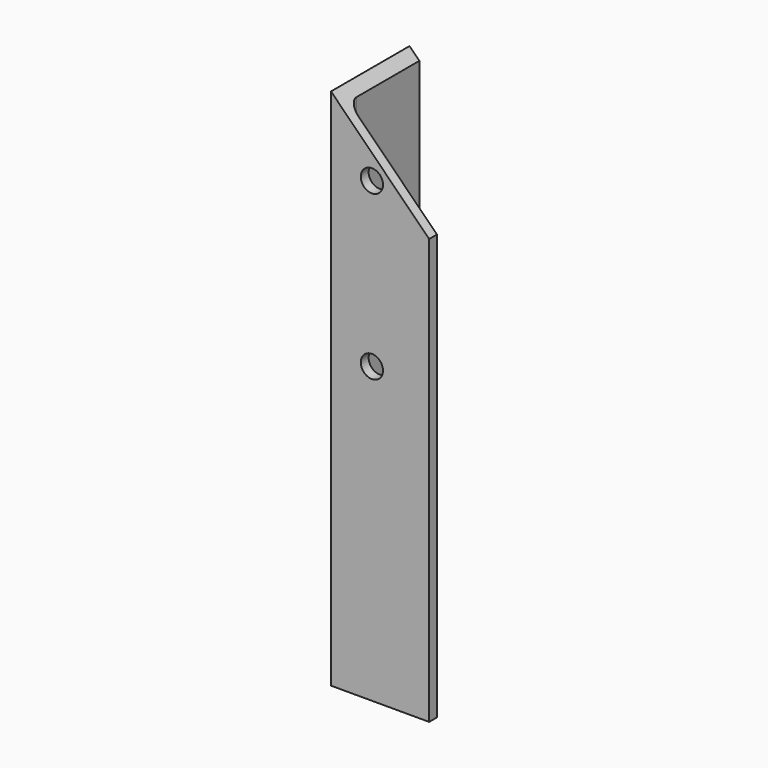
from build123d import *

# Parameters (mm, degrees)
F1_DEPTH = 160
F2_R     = 3
F4_DEPTH = 30.001
F6_D     = 6.8


with BuildPart() as f1:
    # F0 (on Top) → F1 (new body)
    with BuildSketch(Plane.XY):
        Polygon((3, 30), (0, 30), (0, 0), (30, 0), (30, 3), (3, 3), align=None)
    extrude(amount=F1_DEPTH)

    # F2
    f2_edges = [f1.edges().sort_by_distance(p)[0] for p in [
        (3, 3, 80),
    ]]
    fillet(f2_edges, radius=F2_R)

    # F3 (on face) → F4 (cut, through all)
    with BuildSketch(Plane.XZ):
        Polygon((40, 170), (-10, 170), (40, 120), align=None)
    extrude(amount=-F4_DEPTH, mode=Mode.SUBTRACT)

    # F6 (through all)
    with Locations(Plane.XZ):
        with Locations((12.5, 140), (12.5, 90)):
            Hole(F6_D / 2)


solid = f1.part
